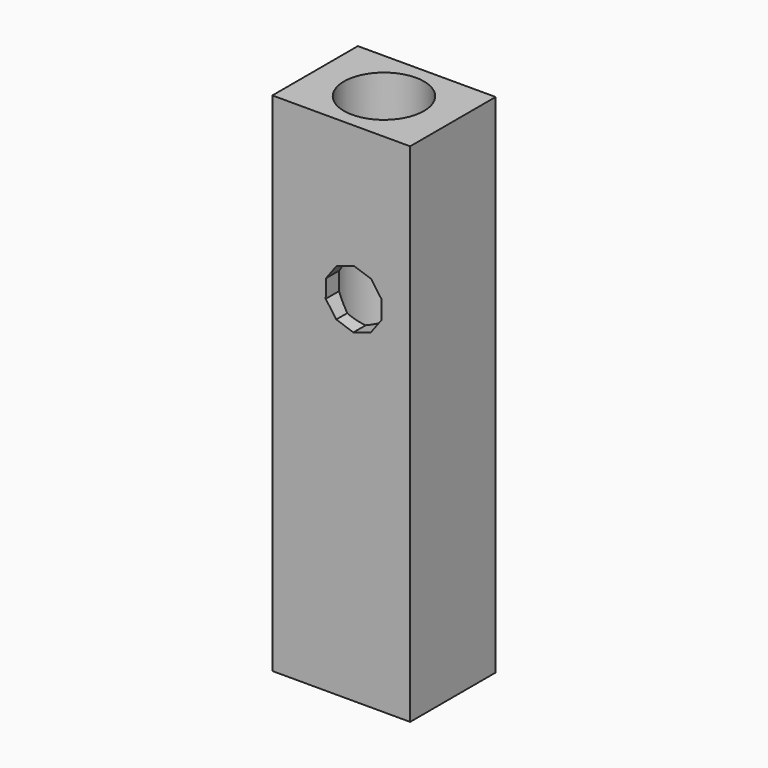
from build123d import *

# Parameters (mm, degrees)
F0_W     = 345.253468
F0_H     = 267.777026
F0_R     = 100.315797
F1_DEPTH = 635
F3_DEPTH = 381


with BuildPart() as f1:
    # F0 (on Top) → F1 (new body, symmetric)
    with BuildSketch(Plane.XY):
        Rectangle(F0_W, F0_H)
        Circle(F0_R, mode=Mode.SUBTRACT)
    extrude(amount=F1_DEPTH, both=True)

    # F2 (on face) → F3 (cut)
    with BuildSketch(Plane.XZ.offset(133.888513)):
        Polygon((-11.421961, 311.532476), (-38.467958, 275.064073), (-38.913039, 229.663278), (-12.5872, 192.67165), (30.453984, 178.218735), (73.770245, 191.825054), (100.816241, 228.293457), (101.261323, 273.694252), (74.935484, 310.68588), (31.894299, 325.138795), align=None)
    extrude(amount=-F3_DEPTH, mode=Mode.SUBTRACT)


solid = f1.part
